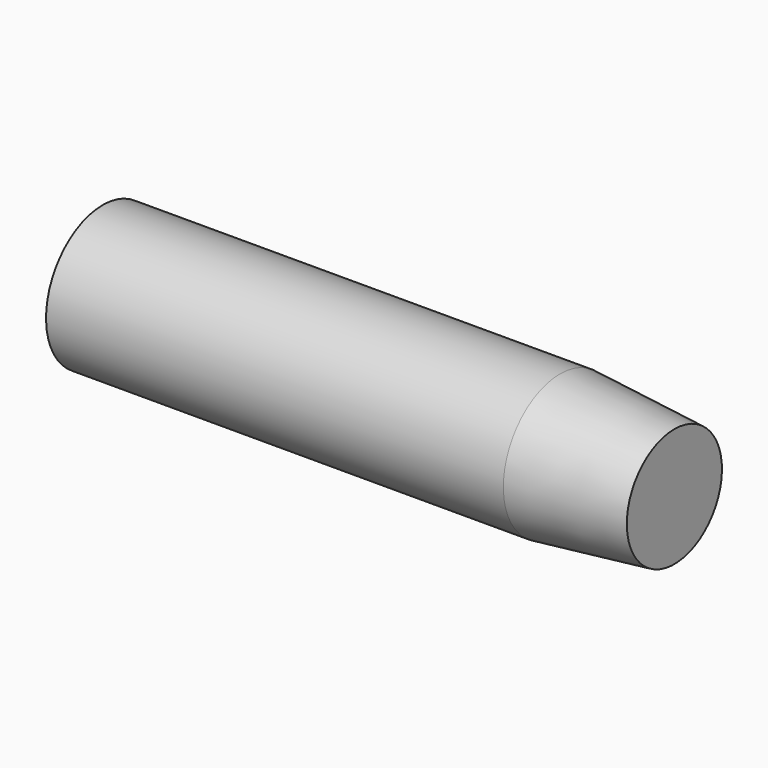
from build123d import *

# Parameters (mm, degrees)
F0_W = 100
F0_H = 31


with BuildPart() as f1:
    # F0 (on Front) → F1 (revolve)
    with BuildSketch(Plane.XZ):
        Polygon((100, 0), (0, 0), (0, -31), (150, -31), (150, -5), align=None)
        with Locations((-50, -15.5)):
            Rectangle(F0_W, F0_H)
    revolve(axis=Axis((75, 0, -31), (1, 0, 0)))


solid = f1.part
